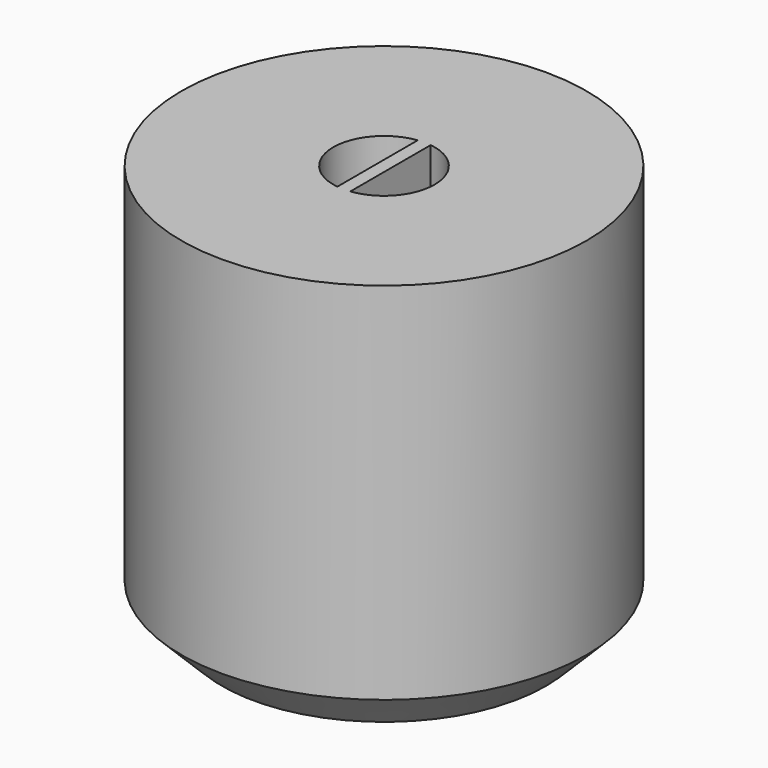
from build123d import *

# Parameters (mm, degrees)
F0_R     = 6.35
F1_DEPTH = 12.7
F2_R     = 1.5875
F3_DEPTH = 10.16
F4_W     = 0.4064
F4_H     = 3.728392
F5_DEPTH = 11.4554
F6_SIZE  = 1.27


with BuildPart() as f1:
    # F0 (on Top) → F1 (new body)
    with BuildSketch(Plane.XY):
        Circle(F0_R)
    extrude(amount=-F1_DEPTH)

    # F2 (on face) → F3 (cut)
    with BuildSketch(Plane.XY):
        Circle(F2_R)
    extrude(amount=-F3_DEPTH, mode=Mode.SUBTRACT)

    # F4 (on Top) → F5 (join)
    with BuildSketch(Plane.XY):
        Rectangle(F4_W, F4_H)
    extrude(amount=-F5_DEPTH)

    # F6
    f6_edges = [f1.edges().sort_by_distance(p)[0] for p in [
        (-6.35, 0, -12.7),
    ]]
    chamfer(f6_edges, length=F6_SIZE)


solid = f1.part
